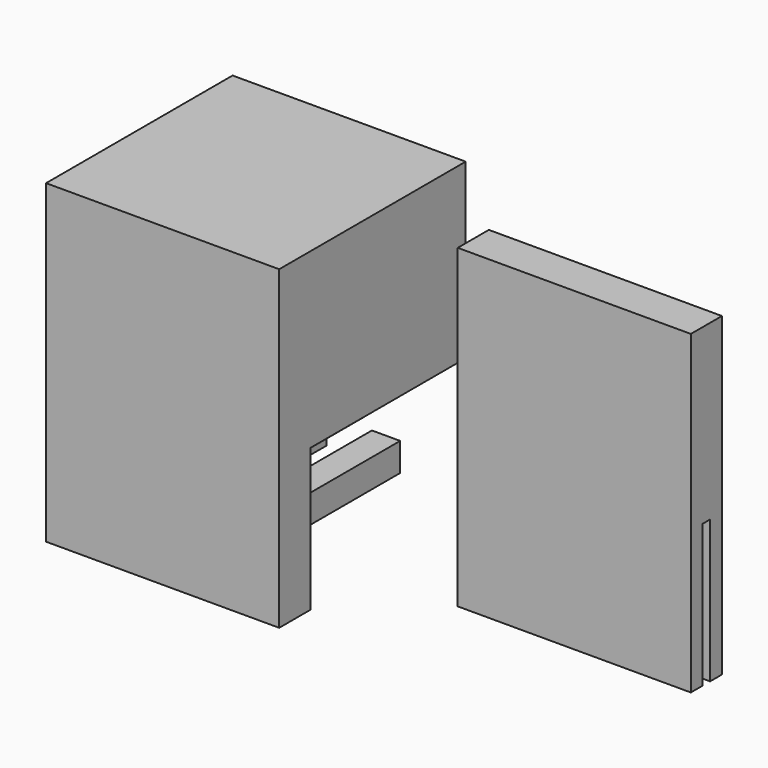
from build123d import *

# Parameters (mm, degrees)
F0_W      = 38.1
F0_H      = 38.1
F1_DEPTH  = 28.2956
F2_W      = 4.6228
F2_H      = 4.6228
F3_DEPTH  = 38.1
F2_W_2    = 38.1
F2_H_2    = 23.3
F4_DEPTH  = 6.35
F5_W      = 38.1
F5_H      = 6.35
F6_DEPTH  = 23.3
F7_W      = 1.524
F7_H      = 23.3
F8_DEPTH  = 90.2937514673
F9_W      = 38.1
F9_H      = 2.413
F9_H_2    = 3.937
F10_DEPTH = 28.2956


with BuildPart() as f1:
    # F0 (on Top) → F1 (new body)
    with BuildSketch(Plane.XY):
        with Locations((5.2072124928, 5.4370228503)):
            Rectangle(F0_W, F0_H)
    extrude(amount=F1_DEPTH)



with BuildPart() as f3:
    # F2 (on face) → F3 (new body)
    with BuildSketch(Plane.XZ.offset(13.6129771497)):
        with Locations((11.2397124928, -5.6175)):
            Rectangle(F2_W, F2_H)
    extrude(amount=-F3_DEPTH)


with BuildPart() as f3b:
    # F2 (on face) → F3, piece 2 (new body)
    with BuildSketch(Plane.XZ.offset(13.6129771497)):
        with Locations((-0.8252875072, -5.6175)):
            Rectangle(F2_W, F2_H)
    extrude(amount=-F3_DEPTH)


with BuildPart() as f3c:
    # F2 (on face) → F3, piece 3 (new body)
    with BuildSketch(Plane.XZ.offset(13.6129771497)):
        with Locations((5.2072124928, -11.65)):
            Rectangle(F2_W, F2_H)
    extrude(amount=-F3_DEPTH)


with BuildPart() as f3d:
    # F2 (on face) → F3, piece 4 (new body)
    with BuildSketch(Plane.XZ.offset(13.6129771497)):
        with Locations((11.2397124928, -17.6825)):
            Rectangle(F2_W, F2_H)
    extrude(amount=-F3_DEPTH)


with BuildPart() as f3e:
    # F2 (on face) → F3, piece 5 (new body)
    with BuildSketch(Plane.XZ.offset(13.6129771497)):
        with Locations((-0.8252875072, -17.6825)):
            Rectangle(F2_W, F2_H)
    extrude(amount=-F3_DEPTH)


with BuildPart() as f1_1:
    add(f1.part)

    add(f3.part)  # F4 merges F3

    add(f3b.part)  # F4 merges F3b

    add(f3c.part)  # F4 merges F3c

    add(f3d.part)  # F4 merges F3d

    add(f3e.part)  # F4 merges F3e
    # F2 (on face) → F4 (join)
    with BuildSketch(Plane.XZ.offset(13.6129771497)):
        with Locations((5.2072124928, -11.65)):
            Rectangle(F2_W_2, F2_H_2)
        with Locations((-0.8252875072, -17.6825)):
            Rectangle(F2_W, F2_H, mode=Mode.SUBTRACT)
        with Locations((-0.8252875072, -5.6175)):
            Rectangle(F2_W, F2_H, mode=Mode.SUBTRACT)
        with Locations((11.2397124928, -17.6825)):
            Rectangle(F2_W, F2_H, mode=Mode.SUBTRACT)
        with Locations((5.2072124928, -11.65)):
            Rectangle(F2_W, F2_H, mode=Mode.SUBTRACT)
        with Locations((11.2397124928, -5.6175)):
            Rectangle(F2_W, F2_H, mode=Mode.SUBTRACT)
    extrude(amount=-F4_DEPTH)


with BuildPart() as f6:
    # F5 (on Top) → F6 (new body)
    with BuildSketch(Plane.XY):
        with Locations((57.3999639601, 8.4235698427)):
            Rectangle(F5_W, F5_H)
    extrude(amount=-F6_DEPTH)

    # F7 (on face) → F8 (cut, through all)
    with BuildSketch(Plane.YZ.offset(76.4499639601)):
        with Locations((8.4235698427, -11.65)):
            Rectangle(F7_W, F7_H)
    extrude(amount=-F8_DEPTH, mode=Mode.SUBTRACT)

    # F9 (on face) → F10 (join)
    with BuildSketch(Plane.XY):
        with Locations((57.3999639601, 6.4550698427)):
            Rectangle(F9_W, F9_H)
        with Locations((57.3999639601, 9.6300698427)):
            Rectangle(F9_W, F9_H_2)
    extrude(amount=F10_DEPTH)


solid = Compound([f1_1.part, f6.part])
